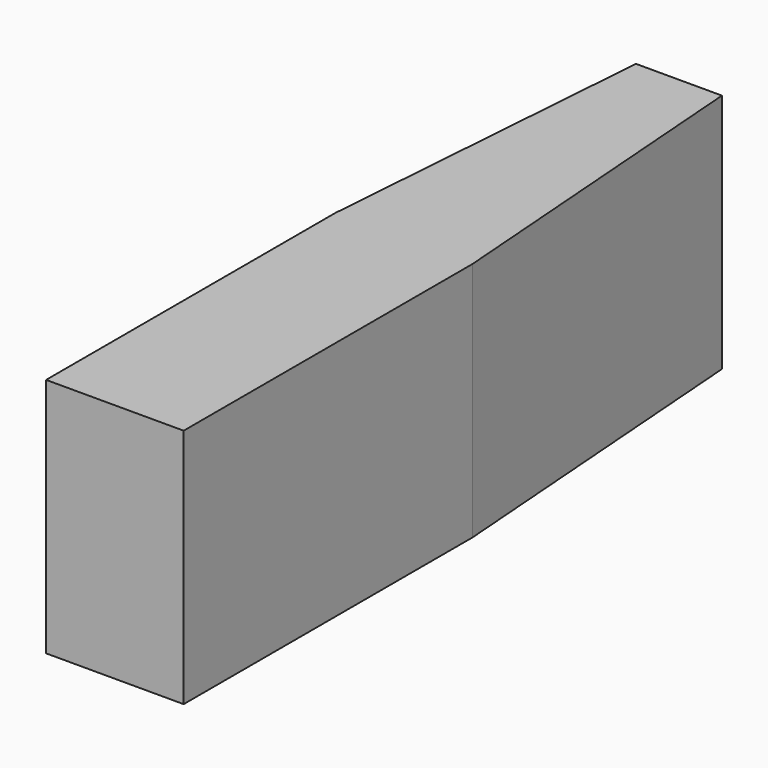
from build123d import *

# Parameters (mm, degrees)
F0_W     = 31.75
F0_H     = 127
F1_DEPTH = 88.9


with BuildPart() as f1:
    # F0 (on Top) → F1 (new body)
    with BuildSketch(Plane.XY):
        with Locations((0, 63.5)):
            Rectangle(F0_W, F0_H)
        Polygon((-15.875, 0), (-25.4, 0), (-25.4, -133.35), (25.4, -133.35), (25.4, 0), (15.875, 0), align=None)
        Polygon((15.875, 127), (15.875, 0), (25.4, 0), align=None)
        Polygon((-15.875, 127), (-25.4, 0), (-15.875, 0), align=None)
    extrude(amount=-F1_DEPTH)


solid = f1.part
